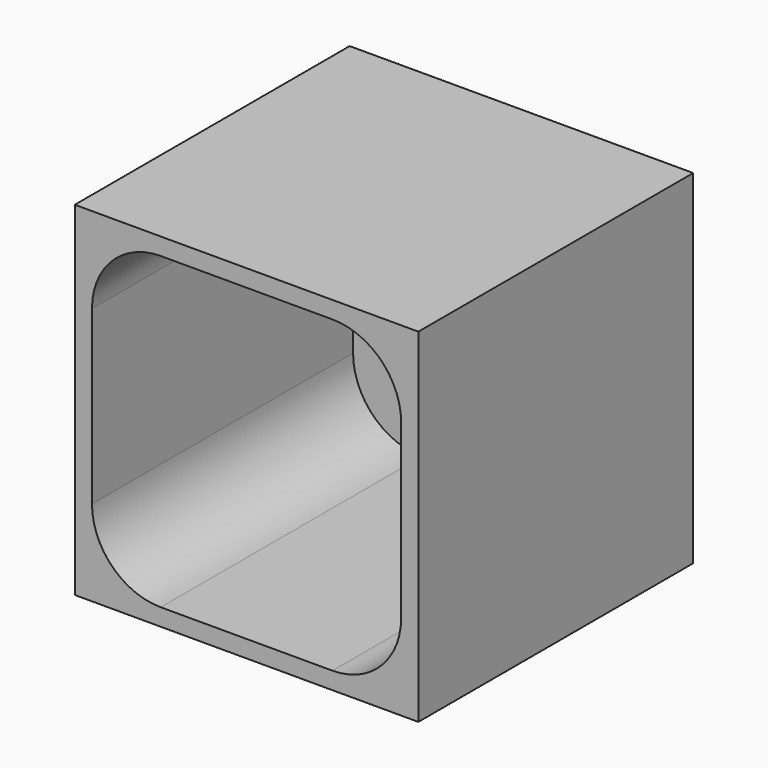
from build123d import *

# Parameters (mm, degrees)
F0_W     = 100
F0_H     = 100
F1_DEPTH = 100
F2_T     = -5
F3_R     = 20


with BuildPart() as f1:
    # F0 (on Top) → F1 (new body)
    with BuildSketch(Plane.XY):
        with Locations((50, 50)):
            Rectangle(F0_W, F0_H)
    extrude(amount=F1_DEPTH)

    # F2
    f2_openings = [f1.faces().sort_by_distance(p)[0] for p in [
        (50, 0, 50),
    ]]
    offset(amount=F2_T, openings=f2_openings)

    # F3
    f3_edges = [f1.edges().sort_by_distance(p)[0] for p in [
        (95, 47.5, 95),
        (95, 47.5, 5),
        (5, 47.5, 5),
        (5, 47.5, 95),
    ]]
    fillet(f3_edges, radius=F3_R)


solid = f1.part
